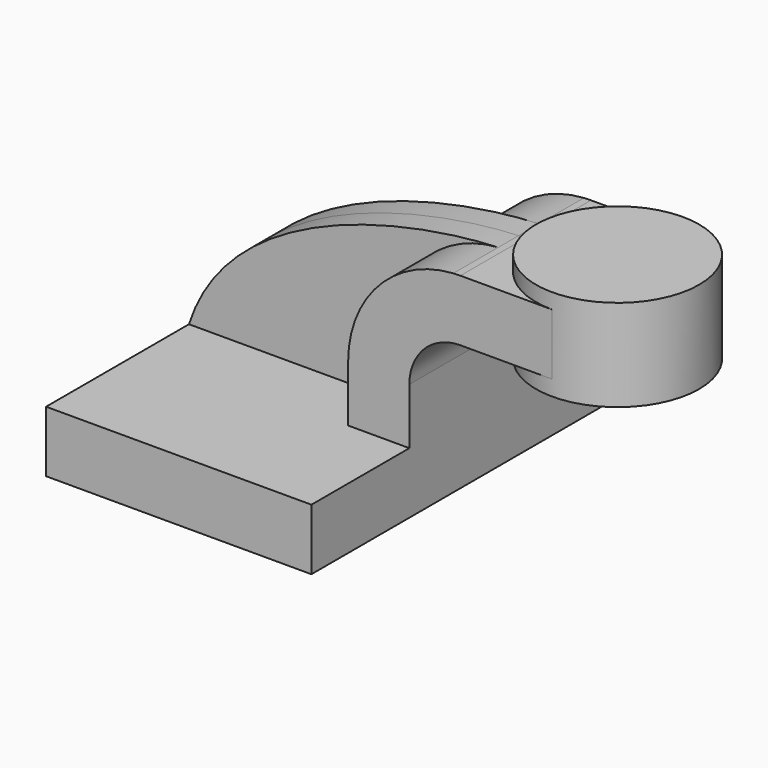
from build123d import *

# Parameters (mm, degrees)
F1_DEPTH = 63.5
F0_W     = 25.4
F0_H     = 19.05
F2_DEPTH = 25.4
F3_DEPTH = 7.9375


with BuildPart() as f1:
    # F0 (on Front) → F1 (new body, symmetric)
    with BuildSketch(Plane.XZ):
        Polygon((-41.275, -9.525), (41.275, -9.525), (41.275, 9.525), (22.225, 9.525), (-41.275, 9.525), align=None)
    extrude(amount=F1_DEPTH, both=True)

    # F0 (on Front) → F2 (join, symmetric)
    with BuildSketch(Plane.XZ):
        with Locations((73.025, 52.4002)):
            Rectangle(F0_W, F0_H)
        with BuildLine():
            Line((22.225, 9.525), (41.275, 9.525))
            Line((41.275, 9.525), (41.275, 27.0002))
            ThreePointArc((41.275, 27.0002), (45.9246798487, 38.2255201513), (57.15, 42.8752))
            Line((57.15, 42.8752), (60.325, 42.8752))
            Line((60.325, 42.8752), (60.325, 61.9252))
            Line((60.325, 61.9252), (57.15, 61.9252))
            add(Edge.make_bspline(
                [(54.9392255171, 61.8551580574), (55.7011340945, 61.8864647718), (56.4386307378, 61.9096636569), (57.15, 61.9252)],
                knots=[108.4110637299, 108.4110637299, 108.4110637299, 108.4110637299, 111.5045361635, 111.5045361635, 111.5045361635, 111.5045361635], degree=3))
            ThreePointArc((54.9392255171, 61.8551580574), (31.6846615591, 50.9015004477), (22.225, 27.0002))
            Line((22.225, 27.0002), (22.225, 9.525))
        make_face()
    extrude(amount=F2_DEPTH, both=True)

    # F0 (on Front) → F3 (join, symmetric)
    with BuildSketch(Plane.XZ):
        with BuildLine():
            add(Edge.make_bspline(
                [(-41.275, 9.525), (-28.4448499709, 49.7031577837), (28.2380600433, 60.7580109912), (54.9392255171, 61.8551580574)],
                knots=[0, 0, 0, 0, 108.4110637299, 108.4110637299, 108.4110637299, 108.4110637299], degree=3))
            Line((-41.275, 9.525), (22.225, 9.525))
            Line((22.225, 9.525), (22.225, 27.0002))
            ThreePointArc((22.225, 27.0002), (31.6846615591, 50.9015004477), (54.9392255171, 61.8551580574))
        make_face()
    extrude(amount=F3_DEPTH, both=True)

    # F0 (on Front) → F4 (revolve)
    with BuildSketch(Plane.XZ):
        Polygon((85.725, 61.9252), (85.725, 42.8752), (85.725, 38.1), (111.125, 38.1), (111.125, 66.675), (85.725, 66.675), align=None)
    revolve(axis=Axis((85.725, 0, 52.3875), (0, 0, 1)))


solid = f1.part
